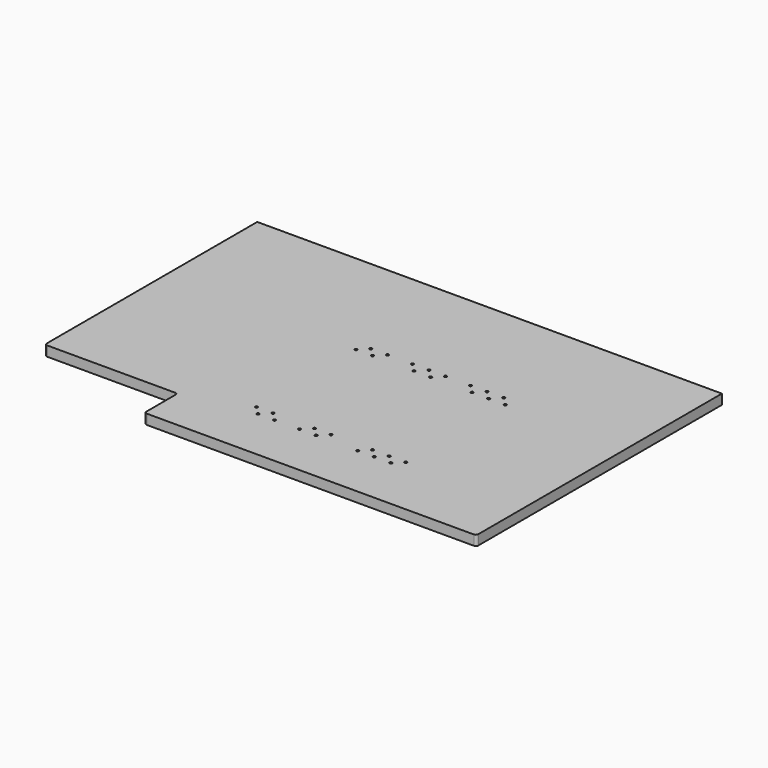
from build123d import *

# Parameters (mm, degrees)
SKETCH_R  = 1.5625
PAD_DEPTH = 12
FILLET_R  = 3


with BuildPart() as part:
    # Sketch → Pad (new body)
    with BuildSketch(Plane.XY):
        Polygon((400, -50), (0, -50), (0, 0), (-160, 0), (-160, 320), (400, 320), align=None)
        with Locations((85, 15)):
            Circle(SKETCH_R, mode=Mode.SUBTRACT)
        with Locations((105, 15)):
            Circle(SKETCH_R, mode=Mode.SUBTRACT)
        with Locations((75, 25)):
            Circle(SKETCH_R, mode=Mode.SUBTRACT)
        with Locations((95, 25)):
            Circle(SKETCH_R, mode=Mode.SUBTRACT)
        with Locations((155, 15)):
            Circle(SKETCH_R, mode=Mode.SUBTRACT)
        with Locations((135, 15)):
            Circle(SKETCH_R, mode=Mode.SUBTRACT)
        with Locations((145, 25)):
            Circle(SKETCH_R, mode=Mode.SUBTRACT)
        with Locations((165, 25)):
            Circle(SKETCH_R, mode=Mode.SUBTRACT)
        with Locations((85, 185)):
            Circle(SKETCH_R, mode=Mode.SUBTRACT)
        with Locations((105, 185)):
            Circle(SKETCH_R, mode=Mode.SUBTRACT)
        with Locations((75, 175)):
            Circle(SKETCH_R, mode=Mode.SUBTRACT)
        with Locations((95, 175)):
            Circle(SKETCH_R, mode=Mode.SUBTRACT)
        with Locations((155, 185)):
            Circle(SKETCH_R, mode=Mode.SUBTRACT)
        with Locations((135, 185)):
            Circle(SKETCH_R, mode=Mode.SUBTRACT)
        with Locations((145, 175)):
            Circle(SKETCH_R, mode=Mode.SUBTRACT)
        with Locations((165, 175)):
            Circle(SKETCH_R, mode=Mode.SUBTRACT)
        with Locations((225, 185)):
            Circle(SKETCH_R, mode=Mode.SUBTRACT)
        with Locations((205, 185)):
            Circle(SKETCH_R, mode=Mode.SUBTRACT)
        with Locations((235, 175)):
            Circle(SKETCH_R, mode=Mode.SUBTRACT)
        with Locations((215, 175)):
            Circle(SKETCH_R, mode=Mode.SUBTRACT)
        with Locations((175, 185)):
            Circle(SKETCH_R, mode=Mode.SUBTRACT)
        with Locations((235, 25)):
            Circle(SKETCH_R, mode=Mode.SUBTRACT)
        with Locations((215, 25)):
            Circle(SKETCH_R, mode=Mode.SUBTRACT)
        with Locations((205, 15)):
            Circle(SKETCH_R, mode=Mode.SUBTRACT)
        with Locations((225, 15)):
            Circle(SKETCH_R, mode=Mode.SUBTRACT)
        with Locations((245, 15)):
            Circle(SKETCH_R, mode=Mode.SUBTRACT)
        with Locations((255, 25)):
            Circle(SKETCH_R, mode=Mode.SUBTRACT)
        with Locations((245, 185)):
            Circle(SKETCH_R, mode=Mode.SUBTRACT)
        with Locations((255, 175)):
            Circle(SKETCH_R, mode=Mode.SUBTRACT)
    extrude(amount=PAD_DEPTH)

    # Fillet
    fillet_edges = [part.edges().sort_by_distance(p)[0] for p in [
        (400, -50, 6),
        (0, -50, 6),
        (0, 0, 6),
        (-160, 0, 6),
    ]]
    fillet(fillet_edges, radius=FILLET_R)


solid = part.part
